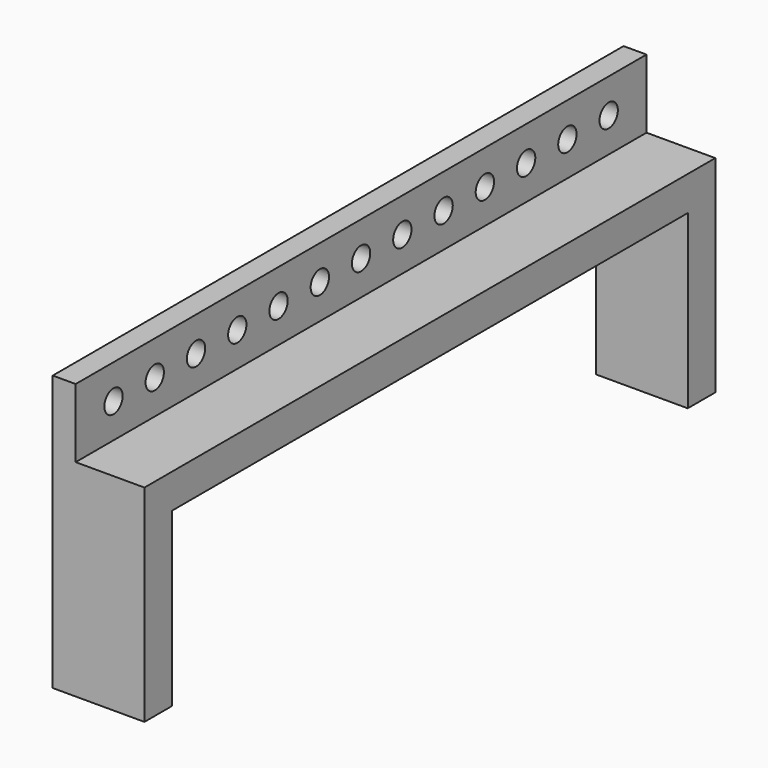
from build123d import *

# Parameters (mm, degrees)
F1_DEPTH = 101.6
F2_W     = 50.8
F2_H     = 152.4
F3_DEPTH = 1581.15
F4_R     = 25.4
F5_DEPTH = 50.8


with BuildPart() as f1:
    # F0 (on Right) → F1 (new body, symmetric)
    with BuildSketch(Plane.YZ):
        Polygon((-790.575, 457.2), (-790.575, 0), (-714.375, 0), (-714.375, 381), (714.375, 381), (714.375, 0), (790.575, 0), (790.575, 457.2), align=None)
    extrude(amount=F1_DEPTH, both=True)

    # F2 (on face) → F3 (join, through all)
    with BuildSketch(Plane.XZ.offset(790.575)):
        with Locations((-76.2, 533.4)):
            Rectangle(F2_W, F2_H)
    extrude(amount=-F3_DEPTH)

    # F4 (on face) → F5 (cut, through all)
    with BuildSketch(Plane.YZ.offset(-50.8)):
        with Locations((-457.2, 533.4)):
            Circle(F4_R)
        with Locations((-342.9, 533.4)):
            Circle(F4_R)
        with Locations((-228.6, 533.4)):
            Circle(F4_R)
        with Locations((-114.3, 533.4)):
            Circle(F4_R)
        with Locations((0, 533.4)):
            Circle(F4_R)
        with Locations((-685.8, 533.4)):
            Circle(F4_R)
        with Locations((-571.5, 533.4)):
            Circle(F4_R)
        with Locations((114.3, 533.4)):
            Circle(F4_R)
        with Locations((228.6, 533.4)):
            Circle(F4_R)
        with Locations((342.9, 533.4)):
            Circle(F4_R)
        with Locations((457.2, 533.4)):
            Circle(F4_R)
        with Locations((571.5, 533.4)):
            Circle(F4_R)
        with Locations((685.8, 533.4)):
            Circle(F4_R)
    extrude(amount=-F5_DEPTH, mode=Mode.SUBTRACT)


solid = f1.part
